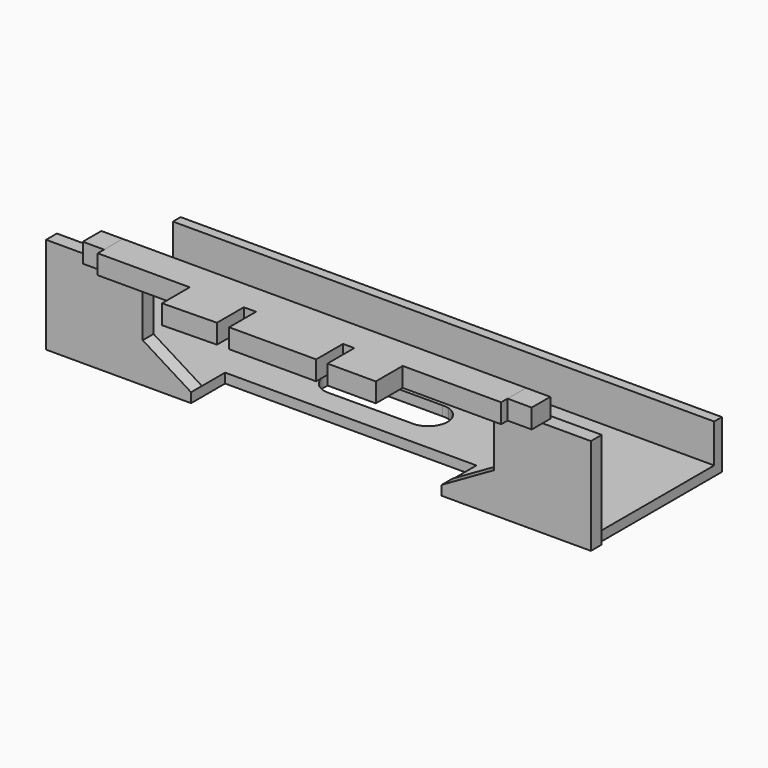
from build123d import *

# Parameters (mm, degrees)
F0_W      = 19.05
F0_H      = 3.81
F1_DEPTH  = 1.27
F3_DEPTH  = 25.4
F4_W      = 71.12
F4_H      = 1.27
F5_DEPTH  = 5.08
F7_DEPTH  = 1.778
F8_W      = 6.35
F8_H      = 3.048
F9_DEPTH  = 2.54
F10_W     = 6.35
F10_H     = 2.1337494254
F10_H_2   = 4.4097490609
F10_W_2   = 11.43
F11_DEPTH = 2.54


with BuildPart() as f1:
    # F0 (on Top) → F1 (new body)
    with BuildSketch(Plane.XY):
        with Locations((26.035, -10.16)):
            Rectangle(F0_W, F0_H)
        Polygon((16.51, -8.255), (35.56, -8.255), (35.56, 8.255), (-35.56, 8.255), (-35.56, -8.255), (-16.51, -8.255), align=None)
        with Locations((-26.035, -10.16)):
            Rectangle(F0_W, F0_H)
    extrude(amount=F1_DEPTH)

    # F2 (on face) → F3 (cut)
    with BuildSketch(Plane.XY.offset(1.27)):
        with BuildLine():
            ThreePointArc((5.8767703432, -5.08), (6.1156478498, -5.043531091), (6.35, -4.984611534))
            Line((6.35, -4.984611534), (6.35, -0.1037009401))
            ThreePointArc((6.35, -0.1037009401), (5.9019976777, -0.0110749589), (5.4446542636, 0))
            Line((5.4446542636, 0), (-5.0605102442, 0))
            ThreePointArc((-5.0605102442, 0), (-5.7133351112, 0.018668554), (-6.35, -0.1268877624))
            Line((-6.35, -0.1268877624), (-6.35, -4.9804089291))
            ThreePointArc((-6.35, -4.9804089291), (-5.9853889631, -5.0844735945), (-5.6094763407, -5.1340756427))
            Line((-5.6094763407, -5.1340756427), (-5.2866646278, -5.1325558903))
            Line((-5.2866646278, -5.1325558903), (5.3708199921, -5.0823819435))
            Line((5.3708199921, -5.0823819435), (5.8767703432, -5.08))
        make_face()
        with BuildLine():
            Line((6.35, -0.1037009401), (6.35, -4.984611534))
            ThreePointArc((6.35, -4.984611534), (8.1614954052, -2.5441562371), (6.35, -0.1037009401))
        make_face()
        with BuildLine():
            ThreePointArc((5.3708199921, -5.0823819435), (5.6238543984, -5.0937722247), (5.8767703432, -5.08))
            Line((5.8767703432, -5.08), (5.3708199921, -5.0823819435))
        make_face()
        with BuildLine():
            ThreePointArc((-5.6094763407, -5.1340756427), (-5.4480467354, -5.1383602933), (-5.2866646278, -5.1325558903))
            Line((-5.2866646278, -5.1325558903), (-5.6094763407, -5.1340756427))
        make_face()
        with BuildLine():
            Line((-6.35, -4.9804089291), (-6.35, -0.1268877624))
            ThreePointArc((-6.35, -0.1268877624), (-8.0449557888, -2.5536483457), (-6.35, -4.9804089291))
        make_face()
    extrude(amount=-F3_DEPTH, mode=Mode.SUBTRACT)

    # F4 (on face) → F5 (join)
    with BuildSketch(Plane.XY.offset(1.27)):
        with Locations((0, 7.62)):
            Rectangle(F4_W, F4_H)
    extrude(amount=F5_DEPTH)

    # F6 (on face) → F7 (join)
    with BuildSketch(Plane.XZ.offset(12.065)):
        Polygon((-35.56, 12.7126304433), (-35.56, 0), (-16.51, 0), (-16.51, 1.27), (-22.86, 5.2196304433), (-22.86, 12.7126304433), align=None)
        Polygon((16.424678266, 0), (36.0221016824, 0), (36.0221016824, 12.7), (23.3221016824, 12.7), (23.3221016824, 5.210170988), (16.424678266, 1.27), align=None)
    extrude(amount=F7_DEPTH)

    # F8 (on face) → F9 (join)
    with BuildSketch(Plane.XY.offset(12.7)):
        with Locations((26.4971016824, -14.097)):
            Rectangle(F8_W, F8_H)
        with Locations((-26.1428912252, -14.097)):
            Rectangle(F8_W, F8_H)
    extrude(amount=F9_DEPTH)


with BuildPart() as f11:
    # F10 (on face) → F11 (new body)
    with BuildSketch(Plane(origin=(0, 0, 12.7), x_dir=(1, 0, 0), z_dir=(0, 0, -1))):
        Polygon((-26.5127364546, 12.573), (26.4971016824, 12.573), (26.4971016824, 16.6712477803), (13.550515829, 16.6712477803), (13.550515829, 14.5374983549), (7.200515829, 14.5374983549), (7.200515829, 16.6712477803), (5.715, 16.6712477803), (5.715, 14.5374983549), (-5.715, 14.5374983549), (-5.715, 16.6712477803), (-7.3176398873, 16.6712477803), (-7.3176398873, 14.418842271), (-14.4214853644, 14.5374983549), (-14.4214853644, 16.6712477803), (-26.5127364546, 16.6712477803), align=None)
        with Locations((10.375515829, 15.6043730676)):
            Rectangle(F10_W, F10_H)
        with Locations((10.375515829, 18.8761223108)):
            Rectangle(F10_W, F10_H_2)
        Polygon((-14.4214853644, 21.2232470512), (-14.4214853644, 16.6712477803), (-7.3176398873, 16.6712477803), (-7.3176398873, 21.0809968412), align=None)
        Polygon((-7.3176398873, 16.6712477803), (-14.4214853644, 16.6712477803), (-14.4214853644, 14.5374983549), (-7.3176398873, 14.418842271), align=None)
        with Locations((0, 15.6043730676)):
            Rectangle(F10_W_2, F10_H)
        with Locations((0, 18.8761223108)):
            Rectangle(F10_W_2, F10_H_2)
    extrude(amount=-F11_DEPTH)


solid = Compound([f1.part, f11.part])
